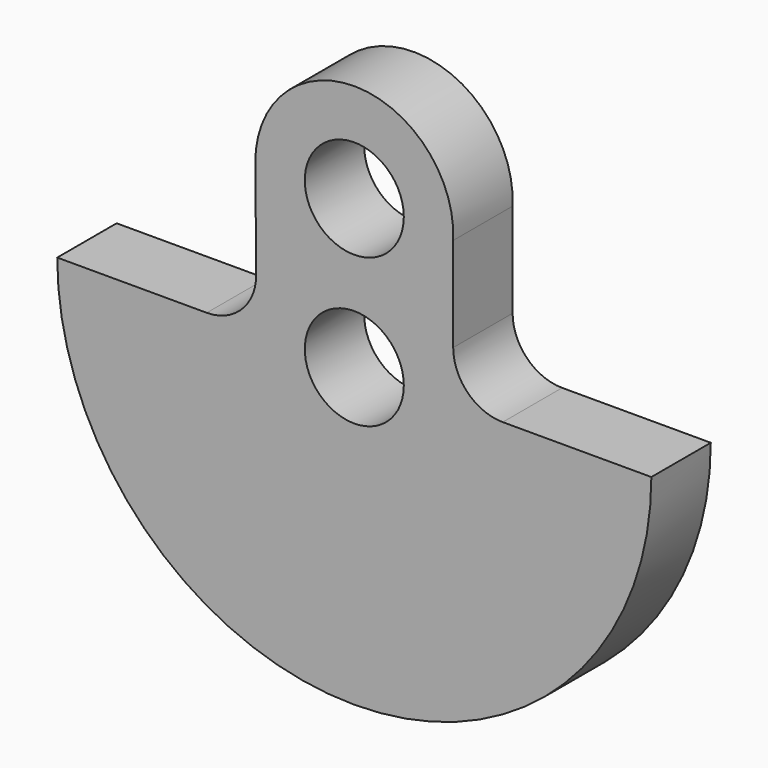
from build123d import *

# Parameters (mm, degrees)
F0_R     = 10
F1_DEPTH = 15
F2_R     = 10
F3_R     = 10


with BuildPart() as f1:
    # F0 (on Front) → F1 (new body)
    with BuildSketch(Plane.XZ):
        with BuildLine():
            Line((-19.702956, 0), (-60, 0))
            ThreePointArc((-60, 0), (0, -60), (60, 0))
            Line((60, 0), (19.977827, 0))
            Line((19.977827, 0), (19.977827, 29.058505))
            ThreePointArc((19.977827, 29.058505), (0.37156, 49.996548), (-19.999013, 29.801323))
            Line((-19.999013, 29.801323), (-19.702956, 0))
        make_face()
        Circle(F0_R, mode=Mode.SUBTRACT)
        with Locations((0, 30)):
            Circle(F0_R, mode=Mode.SUBTRACT)
    extrude(amount=F1_DEPTH)

    # F2
    f2_edges = [f1.edges().sort_by_distance(p)[0] for p in [
        (19.977827, -7.5, 0),
    ]]
    fillet(f2_edges, radius=F2_R)

    # F3
    f3_edges = [f1.edges().sort_by_distance(p)[0] for p in [
        (-19.702956, -7.5, 0),
    ]]
    fillet(f3_edges, radius=F3_R)


solid = f1.part
